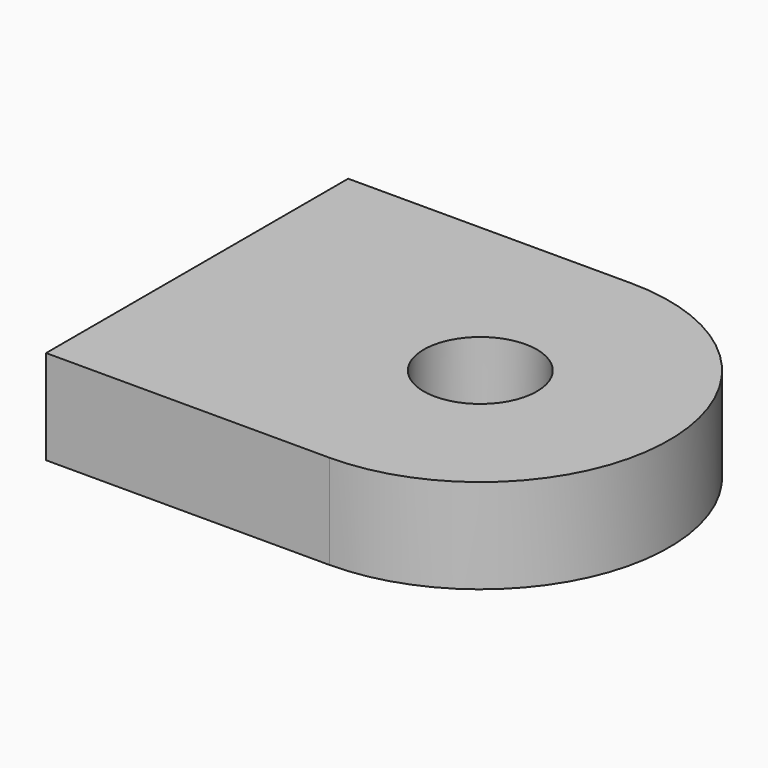
from build123d import *

# Parameters (mm, degrees)
F0_R     = 6
F1_DEPTH = 10


with BuildPart() as f1:
    # F0 (on Top) → F1 (new body)
    with BuildSketch(Plane.XY):
        with BuildLine():
            Line((-3.956423, 26.169722), (-33.956423, 26.169722))
            Line((-33.956423, 26.169722), (-33.956423, -13.830278))
            Line((-33.956423, -13.830278), (-3.956423, -13.830278))
            ThreePointArc((-3.956423, -13.830278), (16.043577, 6.169722), (-3.956423, 26.169722))
        make_face()
        with Locations((-3.956423, 6.169722)):
            Circle(F0_R, mode=Mode.SUBTRACT)
    extrude(amount=F1_DEPTH)


solid = f1.part
